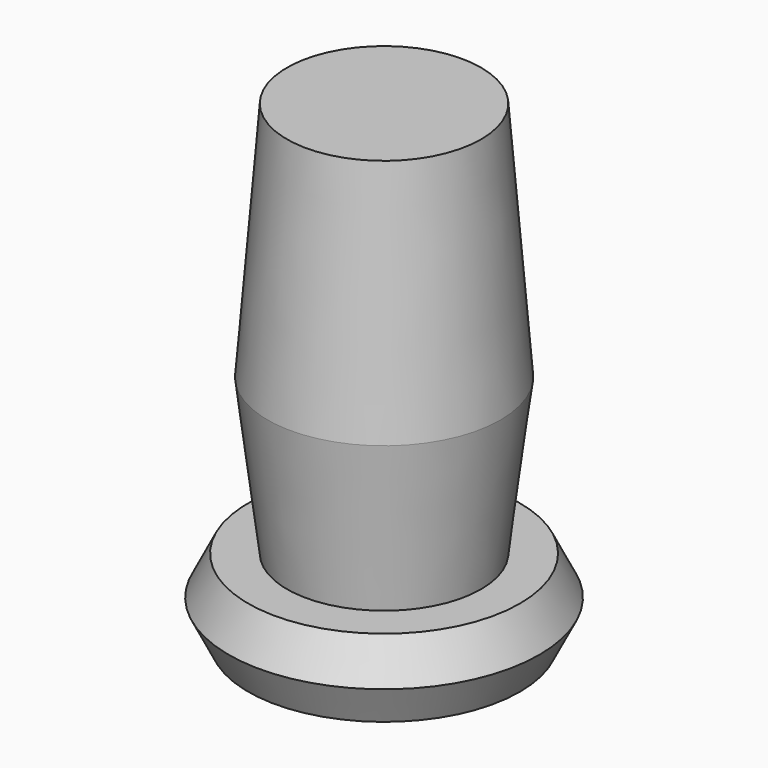
from build123d import *

# Parameters (mm, degrees)
F0_R       = 44.45
F2_R       = 50.8
F3_FACE_R  = 50.8
F5_R       = 44.45
F7_R       = 31.75
F9_R       = 38.1
F10_FACE_R = 38.1
F12_R      = 31.75


with BuildPart() as f3:
    # F0 (on Top) → F3 section 0
    with BuildSketch(Plane.XY):
        Circle(F0_R)
    # F2 (on offset) → F3 section 1
    with BuildSketch(Plane.XY.offset(12.7)):
        Circle(F2_R)
    loft()

    # F3_face (on face) → F6 section 0
    with BuildSketch(Plane.XY.offset(12.7)):
        Circle(F3_FACE_R)
    # F5 (on offset) → F6 section 1
    with BuildSketch(Plane.XY.offset(25.4)):
        Circle(F5_R)
    loft()

    # F7 (on offset) → F10 section 0
    with BuildSketch(Plane.XY.offset(25.4)):
        Circle(F7_R)
    # F9 (on offset) → F10 section 1
    with BuildSketch(Plane.XY.offset(76.2)):
        Circle(F9_R)
    loft()

    # F10_face (on face) → F13 section 0
    with BuildSketch(Plane.XY.offset(76.2)):
        Circle(F10_FACE_R)
    # F12 (on offset) → F13 section 1
    with BuildSketch(Plane.XY.offset(154.94)):
        Circle(F12_R)
    loft()


solid = f3.part
